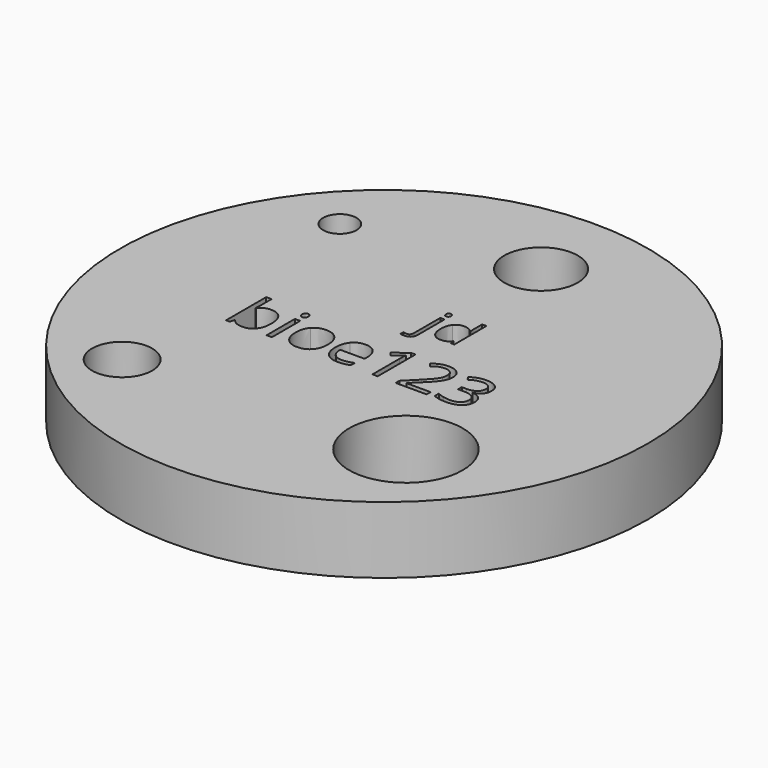
from build123d import *

# Parameters (mm, degrees)
F0_R     = 19.75
F0_R_2   = 2.25
F0_W     = 0.4010515598
F0_H     = 2.646631199
F0_R_3   = 4.25
F0_R_4   = 1.25
F0_R_5   = 2.75
F1_DEPTH = 5


with BuildPart() as f1:
    # F0 (on Top) → F1 (new body)
    with BuildSketch(Plane.XY):
        with Locations((-50.5492123936, 42.0405382614)):
            Circle(F0_R)
        with Locations((-61.4314088517, 31.1435335969)):
            Circle(F0_R_2, mode=Mode.SUBTRACT)
        with BuildLine():
            add(Edge.make_bspline(
                [(-59.391464055, 41.1092576364), (-59.1117325239, 41.5049000229), (-58.5607695911, 41.5049000229)],
                knots=[0, 0, 0, 1, 1, 1], degree=2))
            add(Edge.make_bspline(
                [(-58.5607695911, 41.5049000229), (-58.0391707416, 41.5049000229), (-57.7505527116, 41.1486673272)],
                knots=[0, 0, 0, 1, 1, 1], degree=2))
            add(Edge.make_bspline(
                [(-57.7505527116, 41.1486673272), (-57.4619346816, 40.7924346315), (-57.4619346816, 40.141015624)],
                knots=[0, 0, 0, 1, 1, 1], degree=2))
            add(Edge.make_bspline(
                [(-57.4619346816, 40.141015624), (-57.4619346816, 39.4888238774), (-57.7528709287, 39.127568378)],
                knots=[0, 0, 0, 1, 1, 1], degree=2))
            add(Edge.make_bspline(
                [(-57.7528709287, 39.127568378), (-58.0438071758, 38.7663128786), (-58.5607695911, 38.7663128786)],
                knots=[0, 0, 0, 1, 1, 1], degree=2))
            add(Edge.make_bspline(
                [(-58.5607695911, 38.7663128786), (-58.8196371682, 38.7663128786), (-59.0332995117, 38.8617461496)],
                knots=[0, 0, 0, 1, 1, 1], degree=2))
            add(Edge.make_bspline(
                [(-59.0332995117, 38.8617461496), (-59.2469618552, 38.9571794205), (-59.391464055, 39.1557733528)],
                knots=[0, 0, 0, 1, 1, 1], degree=2))
            Line((-59.391464055, 39.1557733528), (-59.4208281384, 39.1557733528))
            Line((-59.4208281384, 39.1557733528), (-59.5050566933, 38.8149954379))
            Line((-59.5050566933, 38.8149954379), (-59.7925156148, 38.8149954379))
            Line((-59.7925156148, 38.8149954379), (-59.7925156148, 42.572825371))
            Line((-59.7925156148, 42.572825371), (-59.391464055, 42.572825371))
            Line((-59.391464055, 42.572825371), (-59.391464055, 41.6594478302))
            add(Edge.make_bspline(
                [(-59.391464055, 41.6594478302), (-59.391464055, 41.3526704328), (-59.4107825309, 41.1092576364)],
                knots=[0, 0, 0, 1, 1, 1], degree=2))
            Line((-59.4107825309, 41.1092576364), (-59.391464055, 41.1092576364))
        make_face(mode=Mode.SUBTRACT)
        with Locations((-56.5613073349, 40.1383110374)):
            Rectangle(F0_W, F0_H, mode=Mode.SUBTRACT)
        with BuildLine():
            add(Edge.make_bspline(
                [(-53.5538070059, 41.1405535674), (-53.2265520241, 40.7707979385), (-53.2265520241, 40.141015624)],
                knots=[0, 0, 0, 1, 1, 1], degree=2))
            add(Edge.make_bspline(
                [(-53.2265520241, 40.141015624), (-53.2265520241, 39.4934603117), (-53.5522615278, 39.1298865951)],
                knots=[0, 0, 0, 1, 1, 1], degree=2))
            add(Edge.make_bspline(
                [(-53.5522615278, 39.1298865951), (-53.8779710316, 38.7663128786), (-54.4528888745, 38.7663128786)],
                knots=[0, 0, 0, 1, 1, 1], degree=2))
            add(Edge.make_bspline(
                [(-54.4528888745, 38.7663128786), (-54.8083488312, 38.7663128786), (-55.0834439281, 38.9332245104)],
                knots=[0, 0, 0, 1, 1, 1], degree=2))
            add(Edge.make_bspline(
                [(-55.0834439281, 38.9332245104), (-55.358539025, 39.1001361422), (-55.508450398, 39.4115499738)],
                knots=[0, 0, 0, 1, 1, 1], degree=2))
            add(Edge.make_bspline(
                [(-55.508450398, 39.4115499738), (-55.658361771, 39.7229638054), (-55.658361771, 40.141015624)],
                knots=[0, 0, 0, 1, 1, 1], degree=2))
            add(Edge.make_bspline(
                [(-55.658361771, 40.141015624), (-55.658361771, 40.7877981973), (-55.3345841149, 41.1490536967)],
                knots=[0, 0, 0, 1, 1, 1], degree=2))
            add(Edge.make_bspline(
                [(-55.3345841149, 41.1490536967), (-55.0108064587, 41.5103091962), (-54.4358886157, 41.5103091962)],
                knots=[0, 0, 0, 1, 1, 1], degree=2))
            add(Edge.make_bspline(
                [(-54.4358886157, 41.5103091962), (-53.8810619877, 41.5103091962), (-53.5538070059, 41.1405535674)],
                knots=[0, 0, 0, 1, 1, 1], degree=2))
        make_face(mode=Mode.SUBTRACT)
        with BuildLine():
            add(Edge.make_bspline(
                [(-50.9477446063, 38.8064953085), (-51.1370656701, 38.7663128786), (-51.4052061157, 38.7663128786)],
                knots=[0, 0, 0, 1, 1, 1], degree=2))
            add(Edge.make_bspline(
                [(-51.4052061157, 38.7663128786), (-51.9917150442, 38.7663128786), (-52.3313338506, 39.1240910523)],
                knots=[0, 0, 0, 1, 1, 1], degree=2))
            add(Edge.make_bspline(
                [(-52.3313338506, 39.1240910523), (-52.670952657, 39.4818692261), (-52.670952657, 40.1162879748)],
                knots=[0, 0, 0, 1, 1, 1], degree=2))
            add(Edge.make_bspline(
                [(-52.670952657, 40.1162879748), (-52.670952657, 40.7568886359), (-52.3556751303, 41.133598916)],
                knots=[0, 0, 0, 1, 1, 1], degree=2))
            add(Edge.make_bspline(
                [(-52.3556751303, 41.133598916), (-52.0403976035, 41.5103091962), (-51.5087531466, 41.5103091962)],
                knots=[0, 0, 0, 1, 1, 1], degree=2))
            add(Edge.make_bspline(
                [(-51.5087531466, 41.5103091962), (-51.0118819463, 41.5103091962), (-50.7221048077, 41.1830542143)],
                knots=[0, 0, 0, 1, 1, 1], degree=2))
            add(Edge.make_bspline(
                [(-50.7221048077, 41.1830542143), (-50.4323276691, 40.8557992325), (-50.4323276691, 40.3195183414)],
                knots=[0, 0, 0, 1, 1, 1], degree=2))
            Line((-50.4323276691, 40.3195183414), (-50.4323276691, 40.0660599375))
            Line((-50.4323276691, 40.0660599375), (-52.2552190555, 40.0660599375))
            add(Edge.make_bspline(
                [(-52.2552190555, 40.0660599375), (-52.242855231, 39.6000982987), (-52.0195336495, 39.3586173498)],
                knots=[0, 0, 0, 1, 1, 1], degree=2))
            add(Edge.make_bspline(
                [(-52.0195336495, 39.3586173498), (-51.796212068, 39.117136401), (-51.390524074, 39.117136401)],
                knots=[0, 0, 0, 1, 1, 1], degree=2))
            add(Edge.make_bspline(
                [(-51.390524074, 39.117136401), (-50.963199387, 39.117136401), (-50.5459203074, 39.2956391184)],
                knots=[0, 0, 0, 1, 1, 1], degree=2))
            Line((-50.5459203074, 39.2956391184), (-50.5459203074, 38.9378609446))
            add(Edge.make_bspline(
                [(-50.5459203074, 38.9378609446), (-50.7584235424, 38.8466777383), (-50.9477446063, 38.8064953085)],
                knots=[0, 0, 0, 1, 1, 1], degree=2))
        make_face(mode=Mode.SUBTRACT)
        with Locations((-41.3926020184, 32.638966404)):
            Circle(F0_R_3, mode=Mode.SUBTRACT)
        with BuildLine():
            Line((-48.4471610851, 42.3456400943), (-48.4471610851, 38.8149954379))
            Line((-48.4471610851, 38.8149954379), (-48.8381670374, 38.8149954379))
            Line((-48.8381670374, 38.8149954379), (-48.8381670374, 41.3310337398))
            add(Edge.make_bspline(
                [(-48.8381670374, 41.3310337398), (-48.8381670374, 41.6455385275), (-48.8188485615, 41.9252700586)],
                knots=[0, 0, 0, 1, 1, 1], degree=2))
            add(Edge.make_bspline(
                [(-48.8188485615, 41.9252700586), (-48.8690765988, 41.8742692822), (-48.9320548303, 41.8190184411)],
                knots=[0, 0, 0, 1, 1, 1], degree=2))
            add(Edge.make_bspline(
                [(-48.9320548303, 41.8190184411), (-48.9950330618, 41.7637676001), (-49.5065863037, 41.3480339986)],
                knots=[0, 0, 0, 1, 1, 1], degree=2))
            Line((-49.5065863037, 41.3480339986), (-49.7190895387, 41.6231290955))
            Line((-49.7190895387, 41.6231290955), (-48.7848480439, 42.3456400943))
            Line((-48.7848480439, 42.3456400943), (-48.4471610851, 42.3456400943))
        make_face(mode=Mode.SUBTRACT)
        with BuildLine():
            Line((-44.7836053144, 39.1866829143), (-44.7836053144, 38.8149954379))
            Line((-44.7836053144, 38.8149954379), (-47.1041406401, 38.8149954379))
            Line((-47.1041406401, 38.8149954379), (-47.1041406401, 39.160409787))
            Line((-47.1041406401, 39.160409787), (-46.1745355796, 40.0946512818))
            add(Edge.make_bspline(
                [(-46.1745355796, 40.0946512818), (-45.7495291096, 40.525066925), (-45.6142997783, 40.7085924461)],
                knots=[0, 0, 0, 1, 1, 1], degree=2))
            add(Edge.make_bspline(
                [(-45.6142997783, 40.7085924461), (-45.479070447, 40.8921179672), (-45.4114557813, 41.0659842504)],
                knots=[0, 0, 0, 1, 1, 1], degree=2))
            add(Edge.make_bspline(
                [(-45.4114557813, 41.0659842504), (-45.3438411156, 41.2398505335), (-45.3438411156, 41.4399899439)],
                knots=[0, 0, 0, 1, 1, 1], degree=2))
            add(Edge.make_bspline(
                [(-45.3438411156, 41.4399899439), (-45.3438411156, 41.7228124311), (-45.5153891817, 41.8881785849)],
                knots=[0, 0, 0, 1, 1, 1], degree=2))
            add(Edge.make_bspline(
                [(-45.5153891817, 41.8881785849), (-45.6869372477, 42.0535447386), (-45.991396428, 42.0535447386)],
                knots=[0, 0, 0, 1, 1, 1], degree=2))
            add(Edge.make_bspline(
                [(-45.991396428, 42.0535447386), (-46.2108543143, 42.0535447386), (-46.4079027685, 41.9809072692)],
                knots=[0, 0, 0, 1, 1, 1], degree=2))
            add(Edge.make_bspline(
                [(-46.4079027685, 41.9809072692), (-46.6049512227, 41.9082697998), (-46.846045802, 41.7174032579)],
                knots=[0, 0, 0, 1, 1, 1], degree=2))
            Line((-46.846045802, 41.7174032579), (-47.058549037, 41.9901801377))
            add(Edge.make_bspline(
                [(-47.058549037, 41.9901801377), (-46.5709507051, 42.3958681317), (-45.9960328622, 42.3958681317)],
                knots=[0, 0, 0, 1, 1, 1], degree=2))
            add(Edge.make_bspline(
                [(-45.9960328622, 42.3958681317), (-45.4983889229, 42.3958681317), (-45.2159528051, 42.1412506193)],
                knots=[0, 0, 0, 1, 1, 1], degree=2))
            add(Edge.make_bspline(
                [(-45.2159528051, 42.1412506193), (-44.9335166874, 41.8866331068), (-44.9335166874, 41.4569902027)],
                knots=[0, 0, 0, 1, 1, 1], degree=2))
            add(Edge.make_bspline(
                [(-44.9335166874, 41.4569902027), (-44.9335166874, 41.1208487219), (-45.1220650122, 40.7924346315)],
                knots=[0, 0, 0, 1, 1, 1], degree=2))
            add(Edge.make_bspline(
                [(-45.1220650122, 40.7924346315), (-45.3106133371, 40.4640205411), (-45.8268030133, 39.9617401676)],
                knots=[0, 0, 0, 1, 1, 1], degree=2))
            Line((-45.8268030133, 39.9617401676), (-46.5995420495, 39.2060013902))
            Line((-46.5995420495, 39.2060013902), (-46.5995420495, 39.1866829143))
            Line((-46.5995420495, 39.1866829143), (-44.7836053144, 39.1866829143))
        make_face(mode=Mode.SUBTRACT)
        with BuildLine():
            add(Edge.make_bspline(
                [(-42.3742049995, 42.1605690952), (-42.0890642951, 41.9252700586), (-42.0890642951, 41.5149456304)],
                knots=[0, 0, 0, 1, 1, 1], degree=2))
            add(Edge.make_bspline(
                [(-42.0890642951, 41.5149456304), (-42.0890642951, 41.1764859325), (-42.2787717285, 40.9616644805)],
                knots=[0, 0, 0, 1, 1, 1], degree=2))
            add(Edge.make_bspline(
                [(-42.2787717285, 40.9616644805), (-42.4684791619, 40.7468430284), (-42.8162117282, 40.674205559)],
                knots=[0, 0, 0, 1, 1, 1], degree=2))
            Line((-42.8162117282, 40.674205559), (-42.8162117282, 40.6548870831))
            add(Edge.make_bspline(
                [(-42.8162117282, 40.6548870831), (-42.3912052583, 40.6023408286), (-42.1860430441, 40.3848147899)],
                knots=[0, 0, 0, 1, 1, 1], degree=2))
            add(Edge.make_bspline(
                [(-42.1860430441, 40.3848147899), (-41.98088083, 40.1672887512), (-41.98088083, 39.8149197507)],
                knots=[0, 0, 0, 1, 1, 1], degree=2))
            add(Edge.make_bspline(
                [(-41.98088083, 39.8149197507), (-41.98088083, 39.3103211601), (-42.3309316134, 39.0383170193)],
                knots=[0, 0, 0, 1, 1, 1], degree=2))
            add(Edge.make_bspline(
                [(-42.3309316134, 39.0383170193), (-42.6809823968, 38.7663128786), (-43.325446753, 38.7663128786)],
                knots=[0, 0, 0, 1, 1, 1], degree=2))
            add(Edge.make_bspline(
                [(-43.325446753, 38.7663128786), (-43.6059510232, 38.7663128786), (-43.8389318426, 38.8088135256)],
                knots=[0, 0, 0, 1, 1, 1], degree=2))
            add(Edge.make_bspline(
                [(-43.8389318426, 38.8088135256), (-44.071912662, 38.8513141726), (-44.2913705483, 38.9571794205)],
                knots=[0, 0, 0, 1, 1, 1], degree=2))
            Line((-44.2913705483, 38.9571794205), (-44.2913705483, 39.3389125044))
            add(Edge.make_bspline(
                [(-44.2913705483, 39.3389125044), (-44.0618670546, 39.2253198661), (-43.8022267384, 39.1662053298)],
                knots=[0, 0, 0, 1, 1, 1], degree=2))
            add(Edge.make_bspline(
                [(-43.8022267384, 39.1662053298), (-43.5425864222, 39.1070907936), (-43.3107647114, 39.1070907936)],
                knots=[0, 0, 0, 1, 1, 1], degree=2))
            add(Edge.make_bspline(
                [(-43.3107647114, 39.1070907936), (-42.3958416925, 39.1070907936), (-42.3958416925, 39.8241926192)],
                knots=[0, 0, 0, 1, 1, 1], degree=2))
            add(Edge.make_bspline(
                [(-42.3958416925, 39.8241926192), (-42.3958416925, 40.4671114973), (-43.4050388738, 40.4671114973)],
                knots=[0, 0, 0, 1, 1, 1], degree=2))
            Line((-43.4050388738, 40.4671114973), (-43.7527714401, 40.4671114973))
            Line((-43.7527714401, 40.4671114973), (-43.7527714401, 40.8117531074))
            Line((-43.7527714401, 40.8117531074), (-43.4004024396, 40.8117531074))
            add(Edge.make_bspline(
                [(-43.4004024396, 40.8117531074), (-42.9877597942, 40.8117531074), (-42.7462788454, 40.99411952)],
                knots=[0, 0, 0, 1, 1, 1], degree=2))
            add(Edge.make_bspline(
                [(-42.7462788454, 40.99411952), (-42.5047978966, 41.1764859325), (-42.5047978966, 41.5002635887)],
                knots=[0, 0, 0, 1, 1, 1], degree=2))
            add(Edge.make_bspline(
                [(-42.5047978966, 41.5002635887), (-42.5047978966, 41.7583584268), (-42.6821415054, 41.9059515827)],
                knots=[0, 0, 0, 1, 1, 1], degree=2))
            add(Edge.make_bspline(
                [(-42.6821415054, 41.9059515827), (-42.8594851142, 42.0535447386), (-43.1639442945, 42.0535447386)],
                knots=[0, 0, 0, 1, 1, 1], degree=2))
            add(Edge.make_bspline(
                [(-43.1639442945, 42.0535447386), (-43.3957660053, 42.0535447386), (-43.6009282194, 41.9905665072)],
                knots=[0, 0, 0, 1, 1, 1], degree=2))
            add(Edge.make_bspline(
                [(-43.6009282194, 41.9905665072), (-43.8060904336, 41.9275882757), (-44.0695944449, 41.7583584268)],
                knots=[0, 0, 0, 1, 1, 1], degree=2))
            Line((-44.0695944449, 41.7583584268), (-44.2720520724, 42.0288170895))
            add(Edge.make_bspline(
                [(-44.2720520724, 42.0288170895), (-44.0549124032, 42.2003651555), (-43.7713171769, 42.2981166436)],
                knots=[0, 0, 0, 1, 1, 1], degree=2))
            add(Edge.make_bspline(
                [(-43.7713171769, 42.2981166436), (-43.4877219506, 42.3958681317), (-43.1732171629, 42.3958681317)],
                knots=[0, 0, 0, 1, 1, 1], degree=2))
            add(Edge.make_bspline(
                [(-43.1732171629, 42.3958681317), (-42.6593457038, 42.3958681317), (-42.3742049995, 42.1605690952)],
                knots=[0, 0, 0, 1, 1, 1], degree=2))
        make_face(mode=Mode.SUBTRACT)
        with BuildLine():
            add(Edge.make_bspline(
                [(-56.7282189667, 41.9770435741), (-56.7958336323, 42.0434991312), (-56.7958336323, 42.1787284625)],
                knots=[0, 0, 0, 1, 1, 1], degree=2))
            add(Edge.make_bspline(
                [(-56.7958336323, 42.1787284625), (-56.7958336323, 42.316276011), (-56.7282189667, 42.380413351)],
                knots=[0, 0, 0, 1, 1, 1], degree=2))
            add(Edge.make_bspline(
                [(-56.7282189667, 42.380413351), (-56.660604301, 42.444550691), (-56.5586027482, 42.444550691)],
                knots=[0, 0, 0, 1, 1, 1], degree=2))
            add(Edge.make_bspline(
                [(-56.5586027482, 42.444550691), (-56.4620103687, 42.444550691), (-56.3920774859, 42.3792542424)],
                knots=[0, 0, 0, 1, 1, 1], degree=2))
            add(Edge.make_bspline(
                [(-56.3920774859, 42.3792542424), (-56.3221446031, 42.3139577938), (-56.3221446031, 42.1787284625)],
                knots=[0, 0, 0, 1, 1, 1], degree=2))
            add(Edge.make_bspline(
                [(-56.3221446031, 42.1787284625), (-56.3221446031, 42.0434991312), (-56.3920774859, 41.9770435741)],
                knots=[0, 0, 0, 1, 1, 1], degree=2))
            add(Edge.make_bspline(
                [(-56.3920774859, 41.9770435741), (-56.4620103687, 41.9105880169), (-56.5586027482, 41.9105880169)],
                knots=[0, 0, 0, 1, 1, 1], degree=2))
            add(Edge.make_bspline(
                [(-56.5586027482, 41.9105880169), (-56.660604301, 41.9105880169), (-56.7282189667, 41.9770435741)],
                knots=[0, 0, 0, 1, 1, 1], degree=2))
        make_face(mode=Mode.SUBTRACT)
        with Locations((-62.2134255165, 52.481992934)):
            Circle(F0_R_4, mode=Mode.SUBTRACT)
        with BuildLine():
            add(Edge.make_bspline(
                [(-49.8883668341, 44.4286438845), (-49.8883668341, 43.8024169885), (-50.4663748773, 43.8024169885)],
                knots=[0, 0, 0, 1, 1, 1], degree=2))
            add(Edge.make_bspline(
                [(-50.4663748773, 43.8024169885), (-50.6499774322, 43.8024169885), (-50.7637244696, 43.8512540317)],
                knots=[0, 0, 0, 1, 1, 1], degree=2))
            Line((-50.7637244696, 43.8512540317), (-50.7637244696, 44.1115121988))
            add(Edge.make_bspline(
                [(-50.7637244696, 44.1115121988), (-50.6301953387, 44.0731843927), (-50.5009935408, 44.0731843927)],
                knots=[0, 0, 0, 1, 1, 1], degree=2))
            add(Edge.make_bspline(
                [(-50.5009935408, 44.0731843927), (-50.3501550782, 44.0731843927), (-50.2796813703, 44.1554037186)],
                knots=[0, 0, 0, 1, 1, 1], degree=2))
            add(Edge.make_bspline(
                [(-50.2796813703, 44.1554037186), (-50.2092076623, 44.2376230446), (-50.2092076623, 44.4051526485)],
                knots=[0, 0, 0, 1, 1, 1], degree=2))
            Line((-50.2092076623, 44.4051526485), (-50.2092076623, 46.8704960456))
            Line((-50.2092076623, 46.8704960456), (-49.8883668341, 46.8704960456))
            Line((-49.8883668341, 46.8704960456), (-49.8883668341, 44.4286438845))
        make_face(mode=Mode.SUBTRACT)
        with BuildLine():
            add(Edge.make_bspline(
                [(-50.1823163791, 47.2828290561), (-50.2364080409, 47.3359934323), (-50.2364080409, 47.4441767559)],
                knots=[0, 0, 0, 1, 1, 1], degree=2))
            add(Edge.make_bspline(
                [(-50.2364080409, 47.4441767559), (-50.2364080409, 47.5542146507), (-50.1823163791, 47.6055244556)],
                knots=[0, 0, 0, 1, 1, 1], degree=2))
            add(Edge.make_bspline(
                [(-50.1823163791, 47.6055244556), (-50.1282247173, 47.6568342605), (-50.0466235817, 47.6568342605)],
                knots=[0, 0, 0, 1, 1, 1], degree=2))
            add(Edge.make_bspline(
                [(-50.0466235817, 47.6568342605), (-49.9693497792, 47.6568342605), (-49.9134035461, 47.60459717)],
                knots=[0, 0, 0, 1, 1, 1], degree=2))
            add(Edge.make_bspline(
                [(-49.9134035461, 47.60459717), (-49.8574573131, 47.5523600795), (-49.8574573131, 47.4441767559)],
                knots=[0, 0, 0, 1, 1, 1], degree=2))
            add(Edge.make_bspline(
                [(-49.8574573131, 47.4441767559), (-49.8574573131, 47.3359934323), (-49.9134035461, 47.2828290561)],
                knots=[0, 0, 0, 1, 1, 1], degree=2))
            add(Edge.make_bspline(
                [(-49.9134035461, 47.2828290561), (-49.9693497792, 47.2296646799), (-50.0466235817, 47.2296646799)],
                knots=[0, 0, 0, 1, 1, 1], degree=2))
            add(Edge.make_bspline(
                [(-50.0466235817, 47.2296646799), (-50.1282247173, 47.2296646799), (-50.1823163791, 47.2828290561)],
                knots=[0, 0, 0, 1, 1, 1], degree=2))
        make_face(mode=Mode.SUBTRACT)
        with BuildLine():
            Line((-47.7247003622, 44.7531938553), (-47.7673555012, 45.0369432583))
            Line((-47.7673555012, 45.0369432583), (-47.784664833, 45.0369432583))
            add(Edge.make_bspline(
                [(-47.784664833, 45.0369432583), (-48.006595194, 44.7142478588), (-48.4492195351, 44.7142478588)],
                knots=[0, 0, 0, 1, 1, 1], degree=2))
            add(Edge.make_bspline(
                [(-48.4492195351, 44.7142478588), (-48.8646434977, 44.7142478588), (-49.0955376198, 44.998306357)],
                knots=[0, 0, 0, 1, 1, 1], degree=2))
            add(Edge.make_bspline(
                [(-49.0955376198, 44.998306357), (-49.3264317418, 45.2823648553), (-49.3264317418, 45.8059721415)],
                knots=[0, 0, 0, 1, 1, 1], degree=2))
            add(Edge.make_bspline(
                [(-49.3264317418, 45.8059721415), (-49.3264317418, 46.3295794276), (-49.0946103341, 46.6195107349)],
                knots=[0, 0, 0, 1, 1, 1], degree=2))
            add(Edge.make_bspline(
                [(-49.0946103341, 46.6195107349), (-48.8627889264, 46.9094420421), (-48.4492195351, 46.9094420421)],
                knots=[0, 0, 0, 1, 1, 1], degree=2))
            add(Edge.make_bspline(
                [(-48.4492195351, 46.9094420421), (-48.018340812, 46.9094420421), (-47.7883739755, 46.5960194989)],
                knots=[0, 0, 0, 1, 1, 1], degree=2))
            Line((-47.7883739755, 46.5960194989), (-47.7630281683, 46.5960194989))
            Line((-47.7630281683, 46.5960194989), (-47.7766283576, 46.7487125328))
            Line((-47.7766283576, 46.7487125328), (-47.784664833, 46.8976964241))
            Line((-47.784664833, 46.8976964241), (-47.784664833, 47.7594538703))
            Line((-47.784664833, 47.7594538703), (-47.4638240048, 47.7594538703))
            Line((-47.4638240048, 47.7594538703), (-47.4638240048, 44.7531938553))
            Line((-47.4638240048, 44.7531938553), (-47.7247003622, 44.7531938553))
        make_face(mode=Mode.SUBTRACT)
        with Locations((-49.4679389441, 55.3695548513)):
            Circle(F0_R_5, mode=Mode.SUBTRACT)
    extrude(amount=F1_DEPTH)


solid = f1.part
